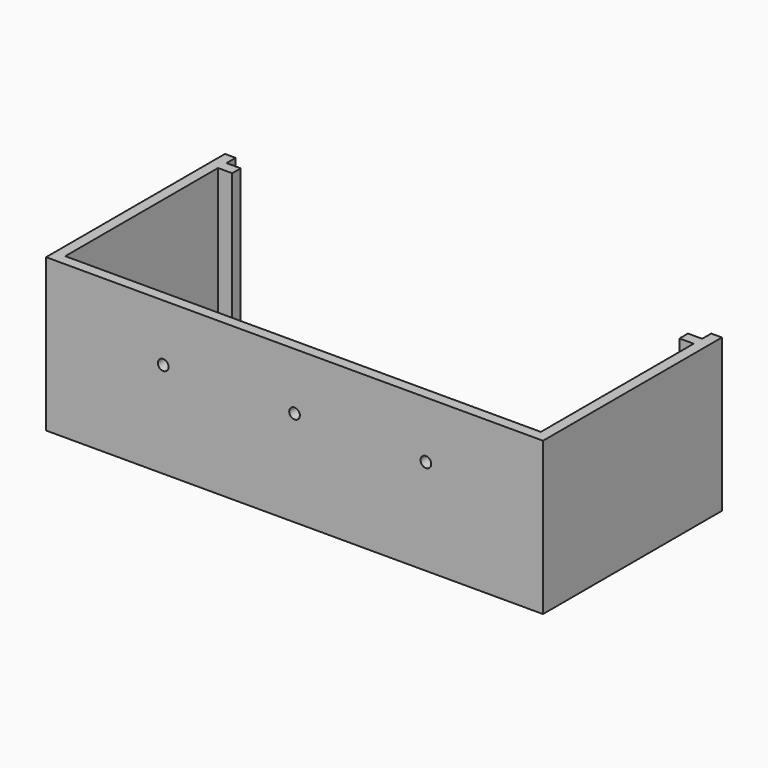
from build123d import *

# Parameters (mm, degrees)
F0_R     = 8
F1_DEPTH = 3
F2_W     = 3
F2_H     = 3
F2_W_2   = 134
F3_DEPTH = 40
F4_W     = 3
F4_H     = 40
F5_DEPTH = 134
F6_W     = 126
F6_H     = 3
F7_DEPTH = 40
F8_R     = 1.5
F9_DEPTH = 3


with BuildPart() as f1:
    # F0 (on Top) → F1 (new body)
    with BuildSketch(Plane.XY):
        Polygon((-60, 33.034884), (-80, 33.034884), (-80, 18.034884), (-80, 0.034884), (-80, -2.965116), (-80, -17.965116), (-80, -29.965116), (60, -29.965116), (60, -24.965116), (60, -14.965116), (60, -9.965116), (60, -4.965116), (60, 0.034884), (60, 18.034884), (60, 33.034884), (40, 33.034884), (20, 33.034884), (0, 33.034884), (-20, 33.034884), (-40, 33.034884), align=None)
        with Locations((25, -0.468963)):
            Circle(F0_R, mode=Mode.SUBTRACT)
        with Locations((-45, 1.034884)):
            Circle(F0_R, mode=Mode.SUBTRACT)
    extrude(amount=F1_DEPTH)

    # F2 (on face) → F3 (join)
    with BuildSketch(Plane.XY.offset(3)):
        with Locations((-78.5, -28.465116)):
            Rectangle(F2_W, F2_H)
        with Locations((-10, -28.465116)):
            Rectangle(F2_W_2, F2_H)
        Polygon((-80, 30.034884), (-80, -26.965116), (-77, -26.965116), (-77, 33.034884), (-80, 33.034884), align=None)
        with Locations((58.5, -28.465116)):
            Rectangle(F2_W, F2_H)
        Polygon((57, 33.034884), (57, -26.965116), (60, -26.965116), (60, 30.034884), (60, 33.034884), align=None)
    extrude(amount=F3_DEPTH)

    # F4 (on face) → F5 (join)
    with BuildSketch(Plane.YZ.offset(-77)):
        with Locations((28.334884, 23)):
            Rectangle(F4_W, F4_H)
    extrude(amount=F5_DEPTH)

    # F6 (on face) → F7 (cut)
    with BuildSketch(Plane.XY.offset(43)):
        with Locations((-10, 28.334884)):
            Rectangle(F6_W, F6_H)
    extrude(amount=-F7_DEPTH, mode=Mode.SUBTRACT)

    # F8 (on face) → F9 (cut)
    with BuildSketch(Plane(origin=(0, -26.965116, 0), x_dir=(-1, 0, 0), z_dir=(0, 1, 0))):
        with Locations((47, 26.988985)):
            Circle(F8_R)
        with Locations((-27, 26.988985)):
            Circle(F8_R)
        with Locations((10, 26.988985)):
            Circle(F8_R)
    extrude(amount=-F9_DEPTH, mode=Mode.SUBTRACT)


solid = f1.part
